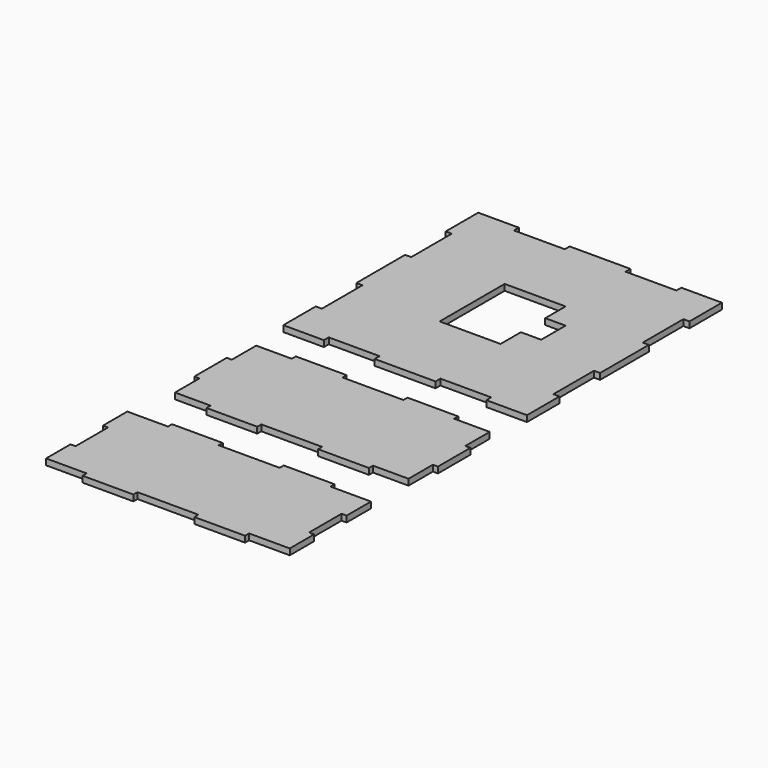
from build123d import *

# Parameters (mm, degrees)
F1_DEPTH = 3
F3_DEPTH = 3


with BuildPart() as f1:
    # F0 (on Top) → F1 (new body)
    with BuildSketch(Plane.XY):
        Polygon((-60, -40), (-60, -60), (-40, -60), (-40, -57), (-15, -57), (-15, -60), (15, -60), (15, -57), (40, -57), (40, -60), (60, -60), (60, -40), (57, -40), (57, -15), (60, -15), (60, 15), (57, 15), (57, 40), (60, 40), (60, 60), (40, 60), (40, 57), (15, 57), (15, 60), (-15, 60), (-15, 57), (-40, 57), (-40, 60), (-60, 60), (-60, 40), (-57, 40), (-57, 15), (-60, 15), (-60, -15), (-57, -15), (-57, -40), align=None)
        Polygon((15, -20), (-15, -20), (-15, 20), (15, 20), (15, 7.5), (25, 7.5), (25, -7.5), (15, -7.5), align=None, mode=Mode.SUBTRACT)
    extrude(amount=F1_DEPTH)


with BuildPart() as f3:
    # F2 (on Top) → F3 (new body)
    with BuildSketch(Plane.XY):
        Polygon((-40, -129.787588), (-40, -132.287588), (-15, -132.287588), (-15, -129.787588), (15, -129.787588), (15, -132.287588), (40, -132.287588), (40, -129.787588), (57.5, -129.787588), (57.5, -114.787588), (60, -114.787588), (60, -94.787588), (57.5, -94.787588), (57.5, -79.787588), (40, -79.787588), (40, -77.287588), (15, -77.287588), (15, -79.787588), (-15, -79.787588), (-15, -77.287588), (-40, -77.287588), (-40, -79.787588), (-57.5, -79.787588), (-57.5, -94.787588), (-60, -94.787588), (-60, -114.787588), (-57.5, -114.787588), (-57.5, -129.787588), align=None)
        Polygon((-16.913267, -151.117958), (-41.913267, -151.117958), (-41.913267, -153.617958), (-61.913267, -153.617958), (-61.913267, -168.617958), (-59.413267, -168.617958), (-59.413267, -188.617958), (-61.913267, -188.617958), (-61.913267, -203.617958), (-41.913267, -203.617958), (-41.913267, -206.117958), (-16.913267, -206.117958), (-16.913267, -203.617958), (13.086733, -203.617958), (13.086733, -206.117958), (38.086733, -206.117958), (38.086733, -203.617958), (58.086733, -203.617958), (58.086733, -188.617958), (55.586733, -188.617958), (55.586733, -168.617958), (58.086733, -168.617958), (58.086733, -153.617958), (38.086733, -153.617958), (38.086733, -151.117958), (13.086733, -151.117958), (13.086733, -153.617958), (-16.913267, -153.617958), align=None)
    extrude(amount=F3_DEPTH)


solid = Compound([f1.part, f3.part])
